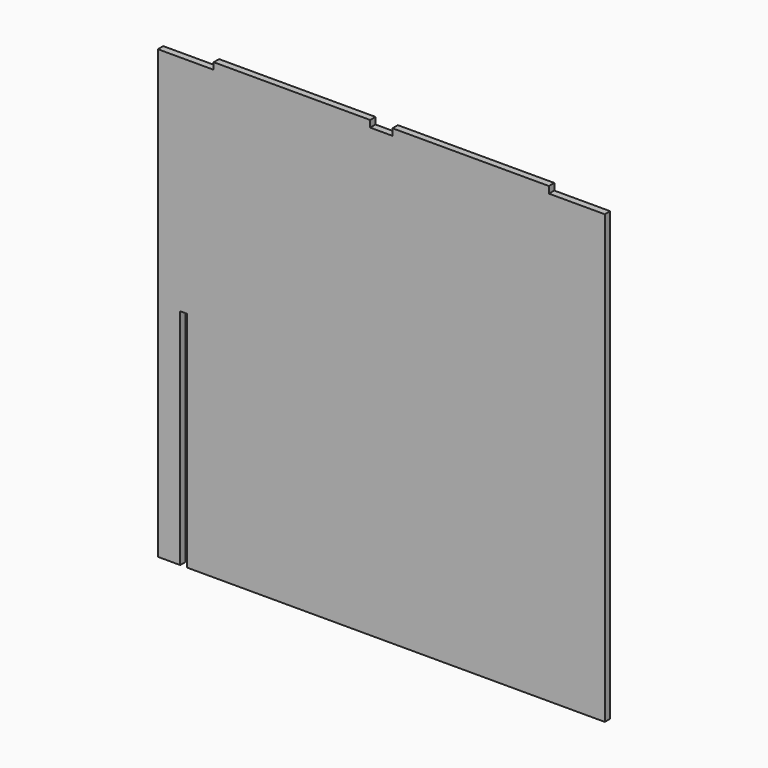
from build123d import *

# Parameters (mm, degrees)
F0_W     = 70
F0_H     = 3
F1_DEPTH = 3


with BuildPart() as f1:
    # F0 (on Front) → F1 (new body)
    with BuildSketch(Plane.XZ):
        Polygon((-56.857143, 146.714286), (-81.857143, 146.714286), (-81.857143, -53.285714), (-71.857143, -53.285714), (-71.857143, 46.714286), (-68.857143, 46.714286), (-68.857143, -53.285714), (118.142857, -53.285714), (118.142857, -43.285714), (118.142857, -40.285714), (118.142857, 146.714286), (93.142857, 146.714286), (23.142857, 146.714286), (13.142857, 146.714286), align=None)
        with Locations((-21.857143, 148.214286)):
            Rectangle(F0_W, F0_H)
        with Locations((58.142857, 148.214286)):
            Rectangle(F0_W, F0_H)
    extrude(amount=F1_DEPTH)


solid = f1.part
